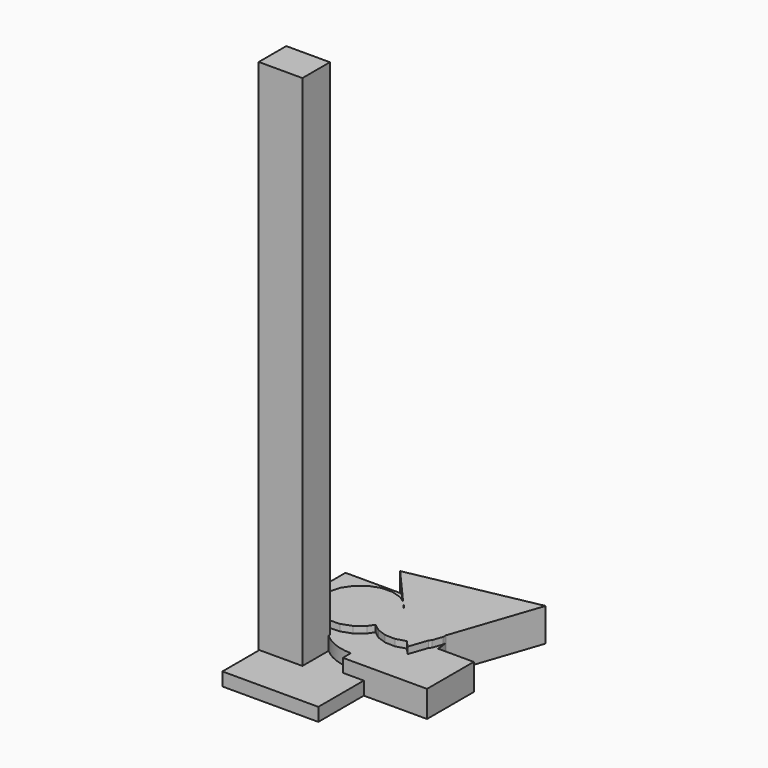
from build123d import *

# Parameters (mm, degrees)
F1_DEPTH = 20
F3_DEPTH = 25
F4_W     = 32.8999999911
F4_H     = 25.900002569
F5_DEPTH = 400
F6_W     = 72.2760502249
F6_H     = 60.5556070805
F7_DEPTH = 10


with BuildPart() as f1:
    # F0 (on Top) → F1 (new body)
    with BuildSketch(Plane.XY):
        with BuildLine():
            Line((0, -36.4989928704), (0, 0))
            Line((0, 0), (-36.4989928704, 0))
            ThreePointArc((-36.4989928704, 0), (-25.8086853652, -25.8086853652), (0, -36.4989928704))
        make_face()
        with BuildLine():
            Line((-36.4989928704, 0), (0, 0))
            Line((0, 0), (0, 36.4989928704))
            ThreePointArc((0, 36.4989928704), (-25.8086853652, 25.8086853652), (-36.4989928704, 0))
        make_face()
        with BuildLine():
            Line((0, 36.4989928704), (0, 0))
            Line((0, 0), (36.4989928704, 0))
            ThreePointArc((36.4989928704, 0), (25.8086853652, 25.8086853652), (0, 36.4989928704))
        make_face()
        with BuildLine():
            Line((36.4989928704, 0), (0, 0))
            Line((0, 0), (0, -36.4989928704))
            ThreePointArc((0, -36.4989928704), (25.8086853652, -25.8086853652), (36.4989928704, 0))
        make_face()
        with BuildLine():
            Line((-66.4428547025, 0), (-36.4989928704, 0))
            ThreePointArc((-36.4989928704, 0), (-25.8086853652, 25.8086853652), (0, 36.4989928704))
            Line((0, 36.4989928704), (0, 41.486993432))
            Line((0, 41.486993432), (-66.4428547025, 41.486993432))
            Line((-66.4428547025, 41.486993432), (-66.4428547025, 0))
        make_face()
        with BuildLine():
            Line((63.4185671806, 0), (36.4989928704, 0))
            ThreePointArc((36.4989928704, 0), (25.8086853652, -25.8086853652), (0, -36.4989928704))
            Line((0, -36.4989928704), (0, -44.0467298031))
            Line((0, -44.0467298031), (63.4185671806, -44.0467298031))
            Line((63.4185671806, -44.0467298031), (63.4185671806, 0))
        make_face()
    extrude(amount=F1_DEPTH)

    # F2 (on Top) → F3 (join)
    with BuildSketch(Plane.XY):
        Polygon((57.8724933064, 74.5838845975), (-36.6974943524, 55.7911281579), (-10.9426933471, 26.4123254008), (-9.5999531063, 25.5090280786), (-8.1394452782, 23.6443783888), (-4.9307275448, 27.8466683828), (1.2793188629, 32.1364451441), (8.5110378867, 34.2972554104), (16.0565384823, 34.1175840178), (23.1772144787, 31.615018454), (29.1760444968, 27.0345272727), (33.465821258, 20.824480865), (35.6266315244, 13.5927618412), (35.511328062, 8.7504642912), align=None)
        Polygon((-9.5999531063, 25.5090280786), (-10.9426933471, 26.4123254008), (-8.3148280565, 23.414688726), (-8.1394452782, 23.6443783888), align=None)
        Polygon((-8.3148280565, 23.414688726), (-10.9426933471, 26.4123254008), (-16.3222458945, 30.0312944786), (-24.1129834259, 32.2549226939), (-32.2095540295, 31.962248502), (-39.8194089626, 29.181920892), (-46.1976426034, 24.186097702), (-50.7199090034, 17.4638049138), (-52.9435372187, 9.6730673824), (-52.6508630268, 1.5764967788), (-49.8705354168, -6.0333581543), (-44.8747122268, -12.4115917951), (-38.1524194386, -16.933858195), (-30.3616819072, -19.1574864104), (-22.2651113036, -18.8648122185), (-14.6552563705, -16.0844846085), (-8.2770227297, -11.0886614185), (-5.2710709409, -6.6203514508), (-5.7428686549, -6.2601036588), (-10.0326454161, -0.0500572511), (-12.1934556825, 7.1816617728), (-12.0137842899, 14.7271623684), (-9.5112187261, 21.8478383648), align=None)
        Polygon((35.4469601318, 6.0472612456), (35.511328062, 8.7504642912), (31.5576392107, -2.889575799), (32.944394568, -1.0734147508), align=None)
        Polygon((31.5576392107, -2.889575799), (35.511328062, 8.7504642912), (35.6266315244, 13.5927618412), (33.465821258, 20.824480865), (29.1760444968, 27.0345272727), (23.1772144787, 31.615018454), (16.0565384823, 34.1175840178), (8.5110378867, 34.2972554104), (1.2793188629, 32.1364451441), (-4.9307275448, 27.8466683828), (-8.1394452782, 23.6443783888), (-4.9795485535, 19.6100963847), (22.1651728078, -11.3542047802), (28.3639033867, -7.0722447689), align=None)
        Polygon((-4.9795485535, 19.6100963847), (-8.3148280565, 23.414688726), (-9.5112187261, 21.8478383648), (-12.0137842899, 14.7271623684), (-12.1934556825, 7.1816617728), (-10.0326454161, -0.0500572511), (-5.7428686549, -6.2601036588), (-5.2710709409, -6.6203514508), (-3.7547563298, -4.3663686303), (-1.5311281144, 3.4243689011), (-1.8238023063, 11.5209395047), (-4.6041299163, 19.1307944379), align=None)
        Polygon((26.8625039607, -16.7125053704), (31.5576392107, -2.889575799), (28.3639033867, -7.0722447689), (22.1651728078, -11.3542047802), align=None)
        Polygon((22.1651728078, -11.3542047802), (-4.9795485535, 19.6100963847), (-4.6041299163, 19.1307944379), (-1.8238023063, 11.5209395047), (-1.5311281144, 3.4243689011), (-3.7547563298, -4.3663686303), (-5.2710709409, -6.6203514508), (0.2559613631, -10.84059484), (7.3766373596, -13.3431604039), (14.9221379551, -13.5228317965), (22.153856979, -11.3620215301), align=None)
    extrude(amount=F3_DEPTH)

    # F4 (on Top) → F5 (join)
    with BuildSketch(Plane.XY):
        with Locations((-40.5125012621, -39.112502709)):
            Rectangle(F4_W, F4_H)
    extrude(amount=F5_DEPTH)

    # F6 (on Top) → F7 (join)
    with BuildSketch(Plane.XY):
        with Locations((-20.344610326, -56.6111132503)):
            Rectangle(F6_W, F6_H)
    extrude(amount=F7_DEPTH)


solid = f1.part
